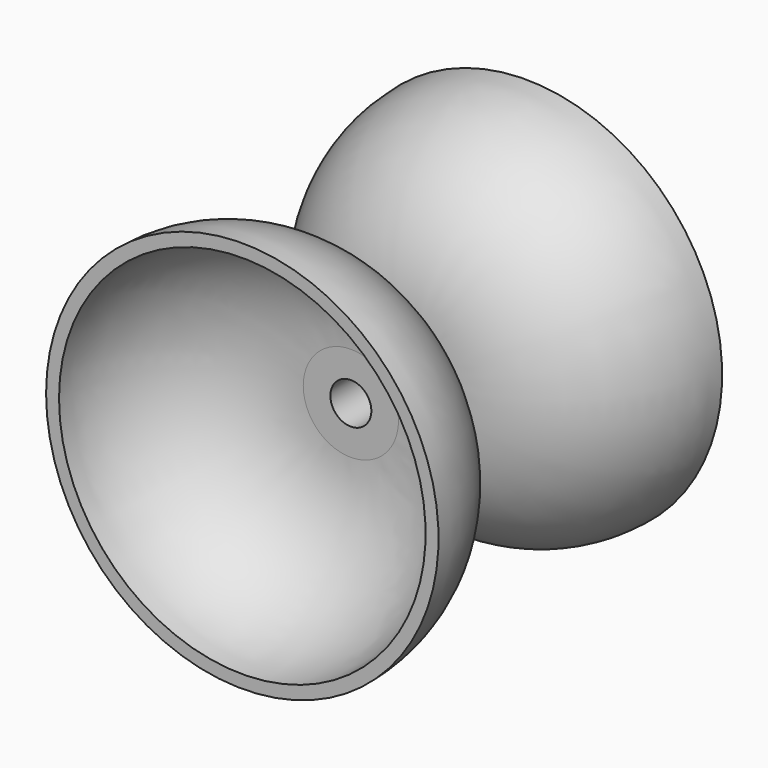
from build123d import *


with BuildPart() as f1:
    # F0 (on Top) → F1 (revolve)
    with BuildSketch(Plane.XY):
        with BuildLine():
            ThreePointArc((-47.172818, 21.215735), (-64.574213, 28.423628), (-71.782107, 45.825023))
            Line((-71.782107, 45.825023), (-74.128716, 45.825023))
            ThreePointArc((-74.128716, 45.825023), (-66.233516, 26.764325), (-47.172818, 18.869126))
            Line((-47.172818, 18.869126), (-47.172818, 13.675563))
            Line((-47.172818, 13.675563), (-47.172818, 8.482))
            ThreePointArc((-47.172818, 8.482), (-66.233516, 0.586801), (-74.128716, -18.473897))
            Line((-74.128716, -18.473897), (-71.782107, -18.473897))
            ThreePointArc((-71.782107, -18.473897), (-64.574213, -1.072502), (-47.172818, 6.135391))
            Line((-47.172818, 6.135391), (-42.256936, 6.135391))
            Line((-42.256936, 6.135391), (-42.256936, 21.215735))
            Line((-42.256936, 21.215735), (-47.172818, 21.215735))
        make_face()
    revolve(axis=Axis((-38.537994, 9.434563, 0), (0, -1, 0)))


solid = f1.part
